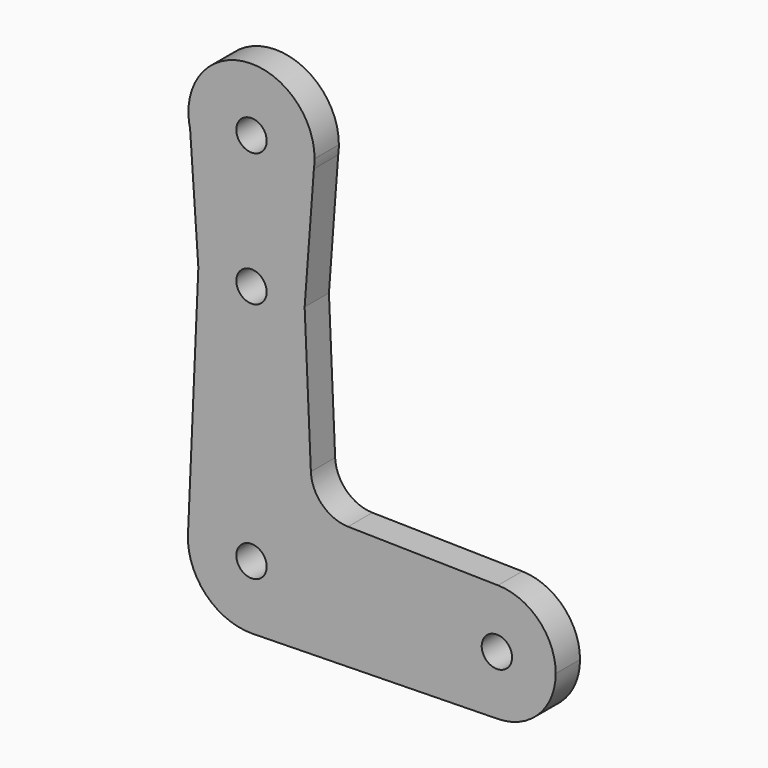
from build123d import *

# Parameters (mm, degrees)
F0_R     = 2.54
F1_DEPTH = 5.08


with BuildPart() as f1:
    # F0 (on Front) → F1 (new body)
    with BuildSketch(Plane.XZ):
        with BuildLine():
            ThreePointArc((-8.8699974055, 40.8420442188), (-8.8776628273, 40.3428457899), (-8.8572558594, 39.8440057497))
            ThreePointArc((-8.8572558594, 39.8440057497), (-0.0227156553, 31.5778260499), (8.8540073545, 39.7986907278))
            ThreePointArc((8.8540073545, 39.7986907278), (8.8722894434, 40.1272110849), (8.8783862642, 40.4561832547))
            ThreePointArc((8.8783862642, 40.4561832547), (8.8762888018, 40.6491593261), (8.8699974055, 40.8420442188))
            ThreePointArc((8.8699974055, 40.8420442188), (0, 49.3345695189), (-8.8699974055, 40.8420442188))
        make_face()
        with Locations((0, 40.4561832547)):
            Circle(F0_R, mode=Mode.SUBTRACT)
        with BuildLine():
            ThreePointArc((41.2476267407, 9.8429949245), (31.2129396154, 0), (41.2476267407, -9.8429949245))
            ThreePointArc((41.2476267407, -9.8429949245), (48.0859141517, -6.8938902431), (50.9025913523, 0))
            ThreePointArc((50.9025913523, 0), (48.0859141517, 6.8938902431), (41.2476267407, 9.8429949245))
        make_face()
        with Locations((41.0577654839, 0)):
            Circle(F0_R, mode=Mode.SUBTRACT)
        with BuildLine():
            ThreePointArc((-10.6265905137, 0.4622759481), (0.2311925918, 10.6341278431), (10.636640682, 0))
            ThreePointArc((10.636640682, 0), (7.5934194305, -7.4483626624), (0.2051317104, -10.6346624761))
            Line((0.2051317104, -10.6346624761), (41.2476267407, -9.8429949245))
            ThreePointArc((41.2476267407, -9.8429949245), (31.2129396154, 0), (41.2476267407, 9.8429949245))
            Line((41.2476267407, 9.8429949245), (16.1548149504, 10.3270094771))
            ThreePointArc((16.1548149504, 10.3270094771), (11.8417793348, 12.1317269213), (9.9332770251, 16.3998529983))
            Line((9.9332770251, 16.3998529983), (8.8927117632, 40.3198968326))
            Line((8.8927117632, 40.3198968326), (8.8540073545, 39.7986907278))
            ThreePointArc((8.8540073545, 39.7986907278), (-0.0227156553, 31.5778260499), (-8.8572558594, 39.8440057497))
            Line((-8.8572558594, 39.8440057497), (-8.8917212495, 40.3426663118))
            Line((-8.8917212495, 40.3426663118), (-10.6265905137, 0.4622759481))
        make_face()
        with BuildLine():
            Line((-10.5070431396, 63.713860382), (-10.2696638302, 60.2793511722))
            ThreePointArc((-10.2696638302, 60.2793511722), (0.4549101859, 52.16996236), (10.4412376032, 61.1728474226))
            Line((10.4412376032, 61.1728474226), (10.5544380359, 62.6972411199))
            ThreePointArc((10.5544380359, 62.6972411199), (10.5544487503, 62.7059238188), (10.5544523217, 62.7146065235))
            ThreePointArc((10.5544523217, 62.7146065235), (0.5001889404, 73.2571998874), (-10.5070431396, 63.713860382))
        make_face()
        with Locations((0, 62.7146065235)):
            Circle(F0_R, mode=Mode.SUBTRACT)
        with BuildLine():
            ThreePointArc((0.2051317104, -10.6346624761), (7.5934194305, -7.4483626624), (10.636640682, 0))
            ThreePointArc((10.636640682, 0), (0.2311925918, 10.6341278431), (-10.6265905137, 0.4622759481))
            ThreePointArc((-10.6265905137, 0.4622759481), (-7.6116497223, -7.4297317249), (0.2051317104, -10.6346624761))
        make_face()
        Circle(F0_R, mode=Mode.SUBTRACT)
        with BuildLine():
            Line((-10.2696638302, 60.2793511722), (-8.8917212495, 40.3426663118))
            Line((-8.8917212495, 40.3426663118), (-8.8699974055, 40.8420442188))
            ThreePointArc((-8.8699974055, 40.8420442188), (0, 49.3345695189), (8.8699974055, 40.8420442188))
            Line((8.8699974055, 40.8420442188), (8.8927117632, 40.3198968326))
            Line((8.8927117632, 40.3198968326), (10.4412376032, 61.1728474226))
            ThreePointArc((10.4412376032, 61.1728474226), (0.4549101859, 52.16996236), (-10.2696638302, 60.2793511722))
        make_face()
        with BuildLine():
            ThreePointArc((-10.5070431396, 63.713860382), (-10.5293329089, 61.9868618527), (-10.2696638302, 60.2793511722))
            Line((-10.2696638302, 60.2793511722), (-10.5070431396, 63.713860382))
        make_face()
        with BuildLine():
            ThreePointArc((8.8783862642, 40.4561832547), (8.8722894434, 40.1272110849), (8.8540073545, 39.7986907278))
            Line((8.8540073545, 39.7986907278), (8.8927117632, 40.3198968326))
            Line((8.8927117632, 40.3198968326), (8.8699974055, 40.8420442188))
            ThreePointArc((8.8699974055, 40.8420442188), (8.8762888018, 40.6491593261), (8.8783862642, 40.4561832547))
        make_face()
        with BuildLine():
            Line((10.5544380359, 62.6972411199), (10.4412376032, 61.1728474226))
            ThreePointArc((10.4412376032, 61.1728474226), (10.5254711496, 61.9329922391), (10.5544380359, 62.6972411199))
        make_face()
        with BuildLine():
            Line((-8.8699974055, 40.8420442188), (-8.8917212495, 40.3426663118))
            Line((-8.8917212495, 40.3426663118), (-8.8572558594, 39.8440057497))
            ThreePointArc((-8.8572558594, 39.8440057497), (-8.8776628273, 40.3428457899), (-8.8699974055, 40.8420442188))
        make_face()
    extrude(amount=F1_DEPTH)


solid = f1.part
